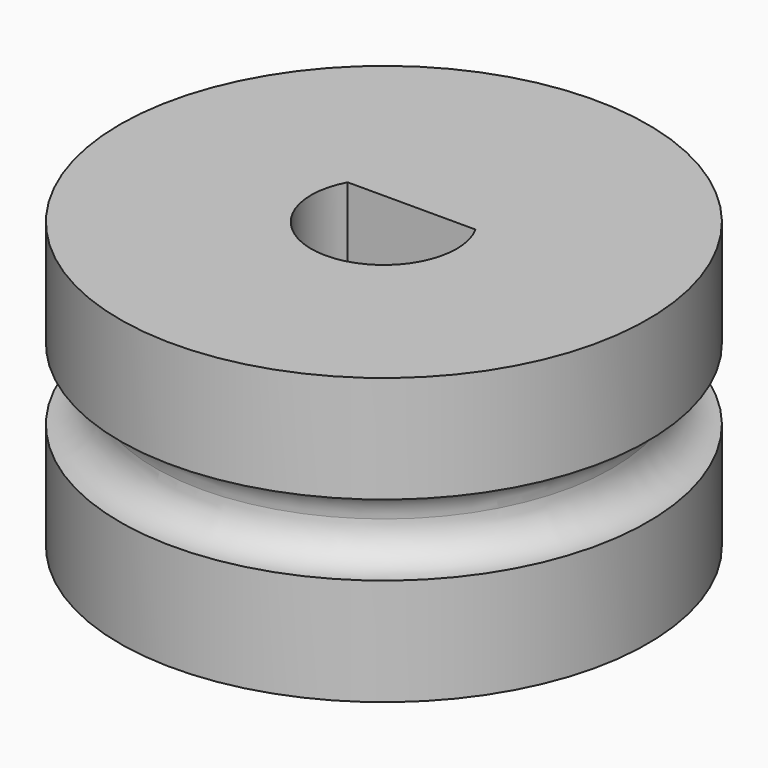
from build123d import *

# Parameters (mm, degrees)
F3_DEPTH = 12.701


with BuildPart() as f1:
    # F0 (on Front) → F1 (revolve)
    with BuildSketch(Plane.XZ):
        with BuildLine():
            Line((0, -6.35), (0, 0))
            Line((0, 0), (0, 6.35))
            Line((0, 6.35), (-11.7475, 6.35))
            Line((-11.7475, 6.35), (-11.7475, 1.5875))
            ThreePointArc((-11.7475, 1.5875), (-10.624968, 1.122532), (-10.16, 0))
            ThreePointArc((-10.16, 0), (-10.624968, -1.122532), (-11.7475, -1.5875))
            Line((-11.7475, -1.5875), (-11.7475, -6.35))
            Line((-11.7475, -6.35), (0, -6.35))
        make_face()
    revolve(axis=Axis((0, 0, 3.175), (0, 0, 1)))

    # F2 (on face) → F3 (cut, through all)
    with BuildSketch(Plane.XY.offset(6.35)):
        with BuildLine():
            ThreePointArc((-2.846846, 1.54381), (-0.796358, -3.13906), (3.2385, 0))
            ThreePointArc((3.2385, 0), (3.13906, 0.796358), (2.846846, 1.54381))
            Line((2.846846, 1.54381), (-2.846846, 1.54381))
        make_face()
    extrude(amount=-F3_DEPTH, mode=Mode.SUBTRACT)


solid = f1.part
